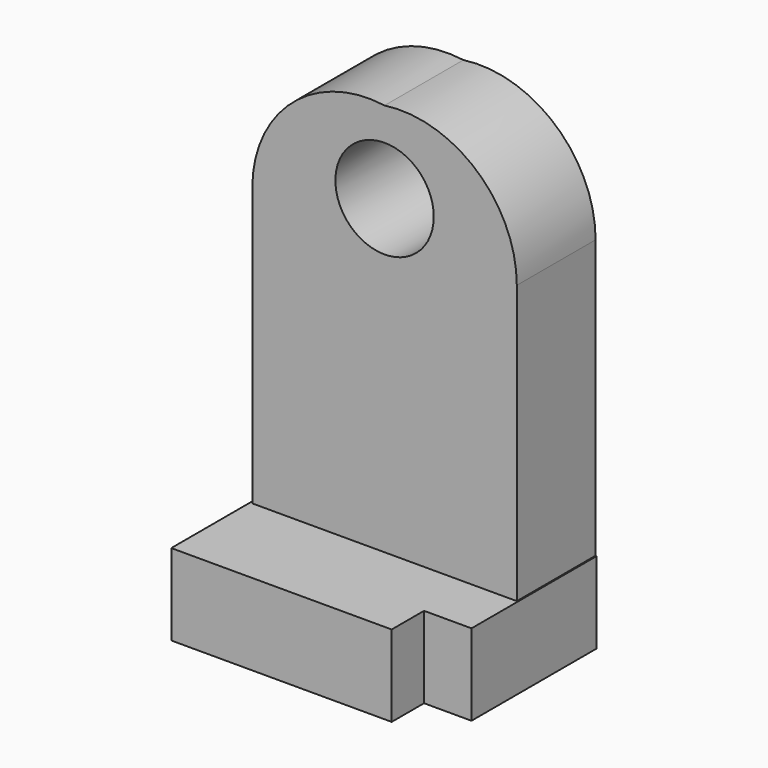
from build123d import *

# Parameters (mm, degrees)
F0_W     = 68.205244
F0_H     = 92.397712
F1_DEPTH = 25.4
F2_R     = 12.682951
F3_DEPTH = 25.401
F4_W     = 69.079674
F4_H     = 20.986233
F5_DEPTH = 50.8
F6_W     = 17.488527
F6_H     = 13.407867
F7_DEPTH = 46.49133


with BuildPart() as f1:
    # F0 (on Front) → F1 (new body)
    with BuildSketch(Plane.XZ):
        with BuildLine():
            ThreePointArc((0, 75.929344), (-23.81299, 68.820144), (-34.102622, 46.198856))
            Line((-34.102622, 46.198856), (34.102622, 46.198856))
            ThreePointArc((34.102622, 46.198856), (23.81299, 68.820144), (0, 75.929344))
        make_face()
        Rectangle(F0_W, F0_H)
    extrude(amount=F1_DEPTH)

    # F2 (on Front) → F3 (cut, through all)
    with BuildSketch(Plane.XZ):
        with Locations((0, 54.785658)):
            Circle(F2_R)
    extrude(amount=F3_DEPTH, mode=Mode.SUBTRACT)

    # F4 (on Front) → F5 (join)
    with BuildSketch(Plane.XZ):
        with Locations((-0.145737, -35.997214)):
            Rectangle(F4_W, F4_H)
        with Locations((-0.145737, -35.997214)):
            Rectangle(F4_W, F4_H)
    extrude(amount=F5_DEPTH)

    # F6 (on Top) → F7 (cut, through all)
    with BuildSketch(Plane.XY):
        with Locations((30.896394, -47.073276)):
            Rectangle(F6_W, F6_H)
    extrude(amount=-F7_DEPTH, mode=Mode.SUBTRACT)


solid = f1.part
